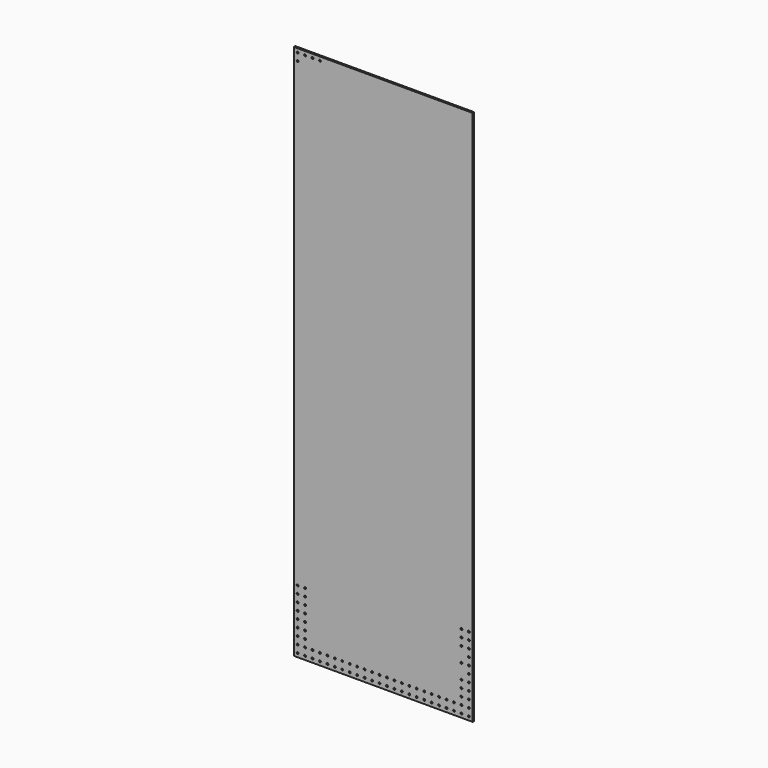
from build123d import *

# Parameters (mm, degrees)
F0_W     = 609.6
F0_H     = 1828.8
F1_DEPTH = 6.35
F2_D     = 6.35


with BuildPart() as f1:
    # F0 (on Front) → F1 (new body)
    with BuildSketch(Plane.XZ):
        Rectangle(F0_W, F0_H)
    extrude(amount=F1_DEPTH)

    # F2 (through all)
    with Locations(Plane(origin=(0, 0, 0), x_dir=(1, 0, 0), z_dir=(0, 1, 0))):
        with Locations((-292.1, 901.7), (-266.7, 901.7), (-241.3, 901.7), (-215.9, 901.7), (-190.5, 901.7), (-165.1, 901.7), (-139.7, 901.7), (-114.3, 901.7), (-88.9, 901.7), (-63.5, 901.7), (-38.1, 901.7), (-12.7, 901.7), (12.7, 901.7), (38.1, 901.7), (63.5, 901.7), (114.3, 901.7), (165.1, 901.7), (190.5, 901.7), (215.9, 901.7), (241.3, 901.7), (266.7, 901.7), (292.1, 901.7), (139.7, 901.7), (88.9, 901.7), (292.1, 876.3), (292.1, 850.9), (292.1, 825.5), (292.1, 800.1), (292.1, 774.7), (292.1, 723.9), (292.1, 698.5), (292.1, 749.3), (292.1, 673.1), (292.1, 647.7), (266.7, 876.3), (241.3, 876.3), (215.9, 876.3), (190.5, 876.3), (165.1, 876.3), (215.9, 876.3), (139.7, 876.3), (114.3, 876.3), (88.9, 876.3), (63.5, 876.3), (38.1, 876.3), (12.7, 876.3), (-12.7, 876.3), (-38.1, 876.3), (-63.5, 876.3), (-88.9, 876.3), (-114.3, 876.3), (-139.7, 876.3), (-165.1, 876.3), (-190.5, 876.3), (-215.9, 876.3), (-241.3, 876.3), (-266.7, 876.3), (-292.1, 876.3), (-292.1, 850.9), (-266.7, 850.9), (-266.7, 825.5), (-292.1, 825.5), (-292.1, 800.1), (-266.7, 800.1), (-266.7, 774.7), (-292.1, 774.7), (-292.1, 749.3), (-266.7, 749.3), (-266.7, 723.9), (-292.1, 723.9), (-292.1, 698.5), (-266.7, 698.5), (266.7, 647.7), (266.7, 673.1), (266.7, 698.5), (266.7, 749.3), (266.7, 800.1), (266.7, 825.5), (266.7, 850.9), (-292.1, -901.7), (-292.1, -876.3), (-266.7, -901.7), (-241.3, -901.7), (-215.9, -901.7)):
            Hole(F2_D / 2)


solid = f1.part
